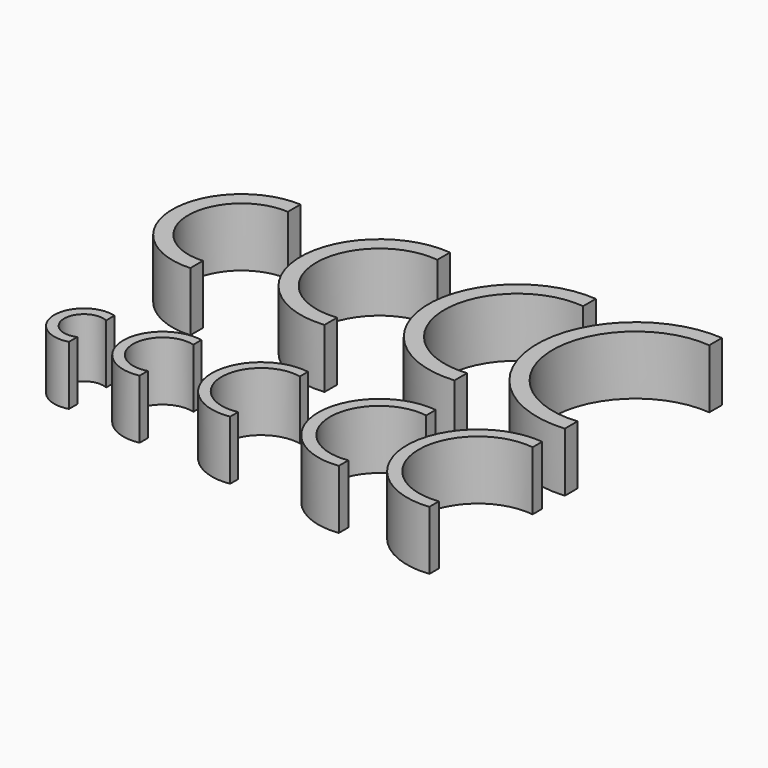
from build123d import *

# Parameters (mm, degrees)
F1_DEPTH = 15


with BuildPart() as f1:
    # F0 (on Top) → F1 (new body)
    with BuildSketch(Plane.XY):
        with BuildLine():
            ThreePointArc((2, -4.582576), (-5, 0), (2, 4.582576))
            Line((2, 4.582576), (2, 7.228416))
            ThreePointArc((2, 7.228416), (-7.5, 0), (2, -7.228416))
            Line((2, -7.228416), (2, -4.582576))
        make_face()
        with BuildLine():
            ThreePointArc((22, -7.228416), (12.5, 0), (22, 7.228416))
            Line((22, 7.228416), (22, 9.797959))
            ThreePointArc((22, 9.797959), (10, 0), (22, -9.797959))
            Line((22, -9.797959), (22, -7.228416))
        make_face()
        with BuildLine():
            ThreePointArc((47, -9.797959), (35, 0), (47, 9.797959))
            Line((47, 9.797959), (47, 12.338963))
            ThreePointArc((47, 12.338963), (32.5, 0), (47, -12.338963))
            Line((47, -12.338963), (47, -9.797959))
        make_face()
        with BuildLine():
            ThreePointArc((77, -12.338963), (62.5, 0), (77, 12.338963))
            Line((77, 12.338963), (77, 15.370426))
            ThreePointArc((77, 15.370426), (59.5, 0), (77, -15.370426))
            Line((77, -15.370426), (77, -12.338963))
        make_face()
        with BuildLine():
            Line((1, 63.462912), (1, 67.471405))
            ThreePointArc((1, 67.471405), (-17.5, 50), (1, 32.528595))
            Line((1, 32.528595), (1, 36.537088))
            ThreePointArc((1, 36.537088), (-13.5, 50), (1, 63.462912))
        make_face()
        with BuildLine():
            Line((37, 65.874508), (37, 69.899749))
            ThreePointArc((37, 69.899749), (15, 50), (37, 30.100251))
            Line((37, 30.100251), (37, 34.125492))
            ThreePointArc((37, 34.125492), (19, 50), (37, 65.874508))
        make_face()
        with BuildLine():
            Line((72, 68.391574), (72, 72.410935))
            ThreePointArc((72, 72.410935), (47.5, 50), (72, 27.589065))
            Line((72, 27.589065), (72, 31.608426))
            ThreePointArc((72, 31.608426), (51.5, 50), (72, 68.391574))
        make_face()
        with BuildLine():
            Line((102, 14.866069), (102, 17.888544))
            ThreePointArc((102, 17.888544), (82, 0), (102, -17.888544))
            Line((102, -17.888544), (102, -14.866069))
            ThreePointArc((102, -14.866069), (85, 0), (102, 14.866069))
        make_face()
        with BuildLine():
            Line((102, 70.904545), (102, 74.919872))
            ThreePointArc((102, 74.919872), (75, 50), (102, 25.080128))
            Line((102, 25.080128), (102, 29.095455))
            ThreePointArc((102, 29.095455), (79, 50), (102, 70.904545))
        make_face()
    extrude(amount=F1_DEPTH)


solid = f1.part
